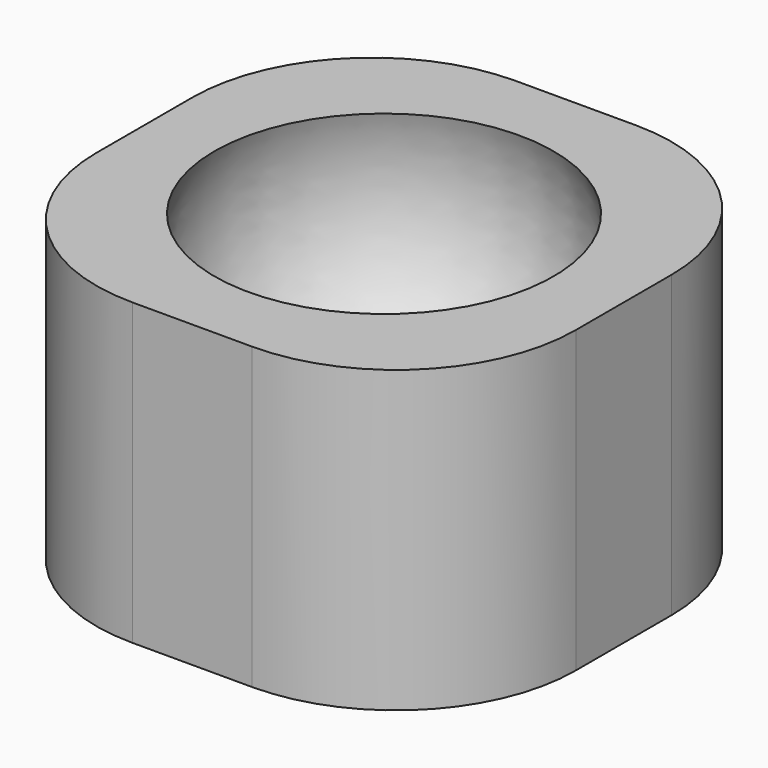
from build123d import *

# Parameters (mm, degrees)
F4_DEPTH = 5
F5_R     = 3


with BuildPart() as f2:
    # F1 (on Front) → F2 (revolve)
    with BuildSketch(Plane.XZ):
        with BuildLine():
            ThreePointArc((0, 1), (-2.44949, 2.267949), (-2.828427, 5))
            Line((-2.828427, 5), (-4, 5))
            Line((-4, 5), (-4, 0))
            Line((-4, 0), (0, 0))
            Line((0, 0), (0, 1))
        make_face()
    revolve(axis=Axis((0, 0, -0.010433), (0, 0, -1)))

    # F3 (on Top) → F4 (join)
    with BuildSketch(Plane.XY):
        with BuildLine():
            ThreePointArc((0, -4), (-2.828427, -2.828427), (-4, 0))
            Line((-4, 0), (-4, -4))
            Line((-4, -4), (0, -4))
        make_face()
        with BuildLine():
            Line((4, -4), (4, 0))
            ThreePointArc((4, 0), (2.828427, -2.828427), (0, -4))
            Line((0, -4), (4, -4))
        make_face()
        with BuildLine():
            Line((4, 4), (0, 4))
            ThreePointArc((0, 4), (2.828427, 2.828427), (4, 0))
            Line((4, 0), (4, 4))
        make_face()
        with BuildLine():
            Line((0, 4), (-4, 4))
            Line((-4, 4), (-4, 0))
            ThreePointArc((-4, 0), (-2.828427, 2.828427), (0, 4))
        make_face()
    extrude(amount=F4_DEPTH)

    # F5
    f5_edges = [f2.edges().sort_by_distance(p)[0] for p in [
        (4, -4, 2.5),
        (4, 4, 2.5),
        (-4, -4, 2.5),
        (-4, 4, 2.5),
    ]]
    fillet(f5_edges, radius=F5_R)


solid = f2.part
